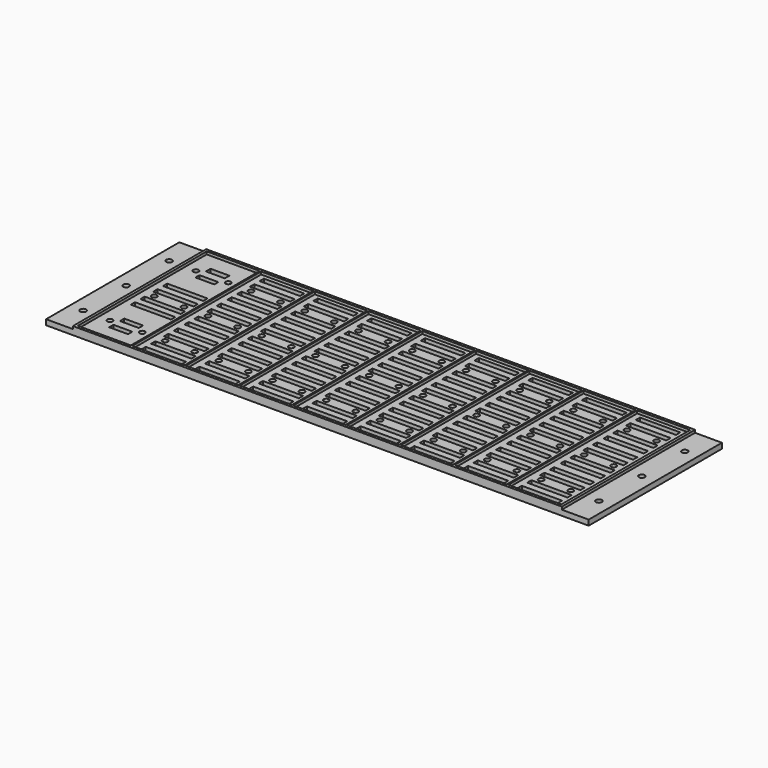
from build123d import *

# Parameters (mm, degrees)
F0_W     = 182
F0_H     = 62
F1_DEPTH = 2
F2_W     = 182
F2_H     = 62
F2_W_2   = 180
F2_H_2   = 60
F3_DEPTH = 1
F4_W     = 10
F4_H     = 62
F4_R     = 1.1
F5_DEPTH = 2
F6_R     = 1
F6_W     = 15
F6_H     = 2
F6_W_2   = 7
F6_H_2   = 1.872653
F6_H_3   = 2.168523
F7_DEPTH = 2
F8_W     = 0.5
F8_H     = 60
F9_DEPTH = 1


with BuildPart() as f1:
    # F0 (on Top) → F1 (new body)
    with BuildSketch(Plane.XY):
        Rectangle(F0_W, F0_H)
    extrude(amount=F1_DEPTH)

    # F2 (on face) → F3 (join)
    with BuildSketch(Plane.XY.offset(2)):
        Rectangle(F2_W, F2_H)
        Rectangle(F2_W_2, F2_H_2, mode=Mode.SUBTRACT)
    extrude(amount=F3_DEPTH)

    # F4 (on Top) → F5 (join)
    with BuildSketch(Plane.XY):
        with Locations((-96, 0)):
            Rectangle(F4_W, F4_H)
        with Locations((-96, -20)):
            Circle(F4_R, mode=Mode.SUBTRACT)
        with Locations((-96, 0)):
            Circle(F4_R, mode=Mode.SUBTRACT)
        with Locations((-96, 20)):
            Circle(F4_R, mode=Mode.SUBTRACT)
        with Locations((96, 0)):
            Rectangle(F4_W, F4_H)
        with Locations((96, -20)):
            Circle(F4_R, mode=Mode.SUBTRACT)
        with Locations((96, 0)):
            Circle(F4_R, mode=Mode.SUBTRACT)
        with Locations((96, 20)):
            Circle(F4_R, mode=Mode.SUBTRACT)
    extrude(amount=F5_DEPTH)

    # F6 (on face) → F7 (cut)
    with BuildSketch(Plane(origin=(0, 0, 0), x_dir=(1, 0, 0), z_dir=(0, 0, -1))):
        with Locations((74.5, 20)):
            Circle(F6_R)
        with Locations((85.5, 20)):
            Circle(F6_R)
        with Locations((80, 23)):
            Rectangle(F6_W, F6_H)
        with Locations((80, 27.5)):
            Rectangle(F6_W, F6_H)
        with Locations((80, 17)):
            Rectangle(F6_W, F6_H)
        with Locations((80, 12.5)):
            Rectangle(F6_W, F6_H)
        with Locations((80, -7.5)):
            Rectangle(F6_W, F6_H)
        with Locations((80, 7.5)):
            Rectangle(F6_W, F6_H)
        with Locations((80, -3)):
            Rectangle(F6_W, F6_H)
        with Locations((80, 3)):
            Rectangle(F6_W, F6_H)
        with Locations((74.5, 0)):
            Circle(F6_R)
        with Locations((85.5, 0)):
            Circle(F6_R)
        with Locations((80, -27.5)):
            Rectangle(F6_W, F6_H)
        with Locations((80, -12.5)):
            Rectangle(F6_W, F6_H)
        with Locations((80, -23)):
            Rectangle(F6_W, F6_H)
        with Locations((80, -17)):
            Rectangle(F6_W, F6_H)
        with Locations((74.5, -20)):
            Circle(F6_R)
        with Locations((85.5, -20)):
            Circle(F6_R)
        with Locations((60, 12.5)):
            Rectangle(F6_W, F6_H)
        with Locations((60, 27.5)):
            Rectangle(F6_W, F6_H)
        with Locations((60, 17)):
            Rectangle(F6_W, F6_H)
        with Locations((60, 23)):
            Rectangle(F6_W, F6_H)
        with Locations((54.5, 20)):
            Circle(F6_R)
        with Locations((65.5, 20)):
            Circle(F6_R)
        with Locations((60, -7.5)):
            Rectangle(F6_W, F6_H)
        with Locations((60, 7.5)):
            Rectangle(F6_W, F6_H)
        with Locations((60, -3)):
            Rectangle(F6_W, F6_H)
        with Locations((60, 3)):
            Rectangle(F6_W, F6_H)
        with Locations((54.5, 0)):
            Circle(F6_R)
        with Locations((65.5, 0)):
            Circle(F6_R)
        with Locations((60, -27.5)):
            Rectangle(F6_W, F6_H)
        with Locations((60, -12.5)):
            Rectangle(F6_W, F6_H)
        with Locations((60, -23)):
            Rectangle(F6_W, F6_H)
        with Locations((60, -17)):
            Rectangle(F6_W, F6_H)
        with Locations((54.5, -20)):
            Circle(F6_R)
        with Locations((65.5, -20)):
            Circle(F6_R)
        with Locations((40, 12.5)):
            Rectangle(F6_W, F6_H)
        with Locations((40, 27.5)):
            Rectangle(F6_W, F6_H)
        with Locations((40, 17)):
            Rectangle(F6_W, F6_H)
        with Locations((40, 23)):
            Rectangle(F6_W, F6_H)
        with Locations((34.5, 20)):
            Circle(F6_R)
        with Locations((45.5, 20)):
            Circle(F6_R)
        with Locations((40, -7.5)):
            Rectangle(F6_W, F6_H)
        with Locations((40, 7.5)):
            Rectangle(F6_W, F6_H)
        with Locations((40, -3)):
            Rectangle(F6_W, F6_H)
        with Locations((40, 3)):
            Rectangle(F6_W, F6_H)
        with Locations((34.5, 0)):
            Circle(F6_R)
        with Locations((45.5, 0)):
            Circle(F6_R)
        with Locations((40, -27.5)):
            Rectangle(F6_W, F6_H)
        with Locations((40, -12.5)):
            Rectangle(F6_W, F6_H)
        with Locations((40, -23)):
            Rectangle(F6_W, F6_H)
        with Locations((40, -17)):
            Rectangle(F6_W, F6_H)
        with Locations((34.5, -20)):
            Circle(F6_R)
        with Locations((45.5, -20)):
            Circle(F6_R)
        with Locations((20, 12.5)):
            Rectangle(F6_W, F6_H)
        with Locations((20, 27.5)):
            Rectangle(F6_W, F6_H)
        with Locations((20, 17)):
            Rectangle(F6_W, F6_H)
        with Locations((20, 23)):
            Rectangle(F6_W, F6_H)
        with Locations((14.5, 20)):
            Circle(F6_R)
        with Locations((25.5, 20)):
            Circle(F6_R)
        with Locations((20, -7.5)):
            Rectangle(F6_W, F6_H)
        with Locations((20, 7.5)):
            Rectangle(F6_W, F6_H)
        with Locations((20, -3)):
            Rectangle(F6_W, F6_H)
        with Locations((20, 3)):
            Rectangle(F6_W, F6_H)
        with Locations((14.5, 0)):
            Circle(F6_R)
        with Locations((25.5, 0)):
            Circle(F6_R)
        with Locations((20, -27.5)):
            Rectangle(F6_W, F6_H)
        with Locations((20, -12.5)):
            Rectangle(F6_W, F6_H)
        with Locations((20, -23)):
            Rectangle(F6_W, F6_H)
        with Locations((20, -17)):
            Rectangle(F6_W, F6_H)
        with Locations((14.5, -20)):
            Circle(F6_R)
        with Locations((25.5, -20)):
            Circle(F6_R)
        with Locations((0, 12.5)):
            Rectangle(F6_W, F6_H)
        with Locations((0, 27.5)):
            Rectangle(F6_W, F6_H)
        with Locations((0, 17)):
            Rectangle(F6_W, F6_H)
        with Locations((0, 23)):
            Rectangle(F6_W, F6_H)
        with Locations((-5.5, 20)):
            Circle(F6_R)
        with Locations((5.5, 20)):
            Circle(F6_R)
        with Locations((0, -7.5)):
            Rectangle(F6_W, F6_H)
        with Locations((0, 7.5)):
            Rectangle(F6_W, F6_H)
        with Locations((0, -3)):
            Rectangle(F6_W, F6_H)
        with Locations((0, 3)):
            Rectangle(F6_W, F6_H)
        with Locations((-5.5, 0)):
            Circle(F6_R)
        with Locations((5.5, 0)):
            Circle(F6_R)
        with Locations((0, -27.5)):
            Rectangle(F6_W, F6_H)
        with Locations((0, -12.5)):
            Rectangle(F6_W, F6_H)
        with Locations((0, -23)):
            Rectangle(F6_W, F6_H)
        with Locations((0, -17)):
            Rectangle(F6_W, F6_H)
        with Locations((-5.5, -20)):
            Circle(F6_R)
        with Locations((5.5, -20)):
            Circle(F6_R)
        with Locations((-20, 12.5)):
            Rectangle(F6_W, F6_H)
        with Locations((-20, 27.5)):
            Rectangle(F6_W, F6_H)
        with Locations((-20, 17)):
            Rectangle(F6_W, F6_H)
        with Locations((-20, 23)):
            Rectangle(F6_W, F6_H)
        with Locations((-25.5, 20)):
            Circle(F6_R)
        with Locations((-14.5, 20)):
            Circle(F6_R)
        with Locations((-20, -7.5)):
            Rectangle(F6_W, F6_H)
        with Locations((-20, 7.5)):
            Rectangle(F6_W, F6_H)
        with Locations((-20, -3)):
            Rectangle(F6_W, F6_H)
        with Locations((-20, 3)):
            Rectangle(F6_W, F6_H)
        with Locations((-25.5, 0)):
            Circle(F6_R)
        with Locations((-14.5, 0)):
            Circle(F6_R)
        with Locations((-20, -27.5)):
            Rectangle(F6_W, F6_H)
        with Locations((-20, -12.5)):
            Rectangle(F6_W, F6_H)
        with Locations((-20, -23)):
            Rectangle(F6_W, F6_H)
        with Locations((-20, -17)):
            Rectangle(F6_W, F6_H)
        with Locations((-25.5, -20)):
            Circle(F6_R)
        with Locations((-14.5, -20)):
            Circle(F6_R)
        with Locations((-40, 12.5)):
            Rectangle(F6_W, F6_H)
        with Locations((-40, 27.5)):
            Rectangle(F6_W, F6_H)
        with Locations((-40, 17)):
            Rectangle(F6_W, F6_H)
        with Locations((-40, 23)):
            Rectangle(F6_W, F6_H)
        with Locations((-45.5, 20)):
            Circle(F6_R)
        with Locations((-34.5, 20)):
            Circle(F6_R)
        with Locations((-40, -7.5)):
            Rectangle(F6_W, F6_H)
        with Locations((-40, 7.5)):
            Rectangle(F6_W, F6_H)
        with Locations((-40, -3)):
            Rectangle(F6_W, F6_H)
        with Locations((-40, 3)):
            Rectangle(F6_W, F6_H)
        with Locations((-45.5, 0)):
            Circle(F6_R)
        with Locations((-34.5, 0)):
            Circle(F6_R)
        with Locations((-40, -27.5)):
            Rectangle(F6_W, F6_H)
        with Locations((-40, -12.5)):
            Rectangle(F6_W, F6_H)
        with Locations((-40, -23)):
            Rectangle(F6_W, F6_H)
        with Locations((-40, -17)):
            Rectangle(F6_W, F6_H)
        with Locations((-45.5, -20)):
            Circle(F6_R)
        with Locations((-34.5, -20)):
            Circle(F6_R)
        with Locations((-60, 12.5)):
            Rectangle(F6_W, F6_H)
        with Locations((-60, 27.5)):
            Rectangle(F6_W, F6_H)
        with Locations((-60, 17)):
            Rectangle(F6_W, F6_H)
        with Locations((-60, 23)):
            Rectangle(F6_W, F6_H)
        with Locations((-65.5, 20)):
            Circle(F6_R)
        with Locations((-54.5, 20)):
            Circle(F6_R)
        with Locations((-60, -7.5)):
            Rectangle(F6_W, F6_H)
        with Locations((-60, 7.5)):
            Rectangle(F6_W, F6_H)
        with Locations((-60, -3)):
            Rectangle(F6_W, F6_H)
        with Locations((-60, 3)):
            Rectangle(F6_W, F6_H)
        with Locations((-65.5, 0)):
            Circle(F6_R)
        with Locations((-54.5, 0)):
            Circle(F6_R)
        with Locations((-60, -27.5)):
            Rectangle(F6_W, F6_H)
        with Locations((-60, -12.5)):
            Rectangle(F6_W, F6_H)
        with Locations((-60, -23)):
            Rectangle(F6_W, F6_H)
        with Locations((-60, -17)):
            Rectangle(F6_W, F6_H)
        with Locations((-65.5, -20)):
            Circle(F6_R)
        with Locations((-54.5, -20)):
            Circle(F6_R)
        with Locations((-80, -7.5)):
            Rectangle(F6_W, F6_H)
        with Locations((-80, 7.5)):
            Rectangle(F6_W, F6_H)
        with Locations((-80, -3)):
            Rectangle(F6_W, F6_H)
        with Locations((-80, 3)):
            Rectangle(F6_W, F6_H)
        with Locations((-85.5, 0)):
            Circle(F6_R)
        with Locations((-74.5, 0)):
            Circle(F6_R)
        with Locations((-86, 20)):
            Circle(F6_R)
        with Locations((-74, 20)):
            Circle(F6_R)
        with Locations((-80, 22.5)):
            Rectangle(F6_W_2, F6_H)
        with Locations((-80, 17.5)):
            Rectangle(F6_W_2, F6_H)
        with Locations((-74, -20)):
            Circle(F6_R)
        with Locations((-80, -17.563674)):
            Rectangle(F6_W_2, F6_H_2)
        with Locations((-80, -22.584262)):
            Rectangle(F6_W_2, F6_H_3)
        with Locations((-86, -20)):
            Circle(F6_R)
    extrude(amount=-F7_DEPTH, mode=Mode.SUBTRACT)

    # F8 (on face) → F9 (join)
    with BuildSketch(Plane.XY.offset(2)):
        with Locations((-70, 0)):
            Rectangle(F8_W, F8_H)
        with Locations((-50, 0)):
            Rectangle(F8_W, F8_H)
        with Locations((-30, 0)):
            Rectangle(F8_W, F8_H)
        with Locations((-10, 0)):
            Rectangle(F8_W, F8_H)
        with Locations((10, 0)):
            Rectangle(F8_W, F8_H)
        with Locations((30, 0)):
            Rectangle(F8_W, F8_H)
        with Locations((50, 0)):
            Rectangle(F8_W, F8_H)
        with Locations((70, 0)):
            Rectangle(F8_W, F8_H)
    extrude(amount=F9_DEPTH)


solid = f1.part
